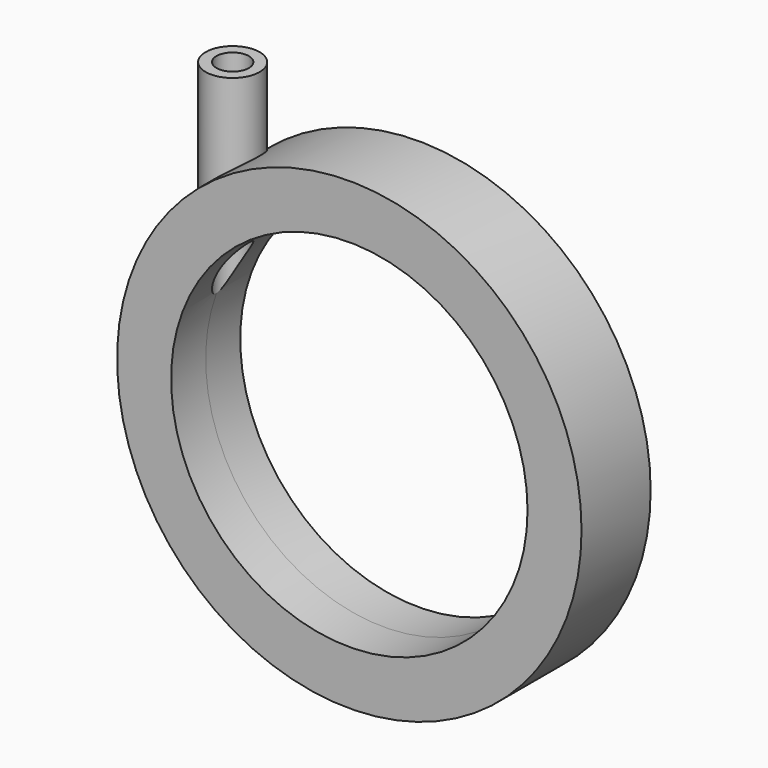
from build123d import *

# Parameters (mm, degrees)
SKETCH001_R       = 43
PAD_DEPTH         = 8
SKETCH002_W       = 5
SKETCH002_H       = 50
SKETCH003_R       = 33
POCKET_DEPTH      = 8.001
POCKET_DEPTH_BACK = 8.001
SKETCH004_W       = 3
SKETCH004_H       = 50


with BuildPart() as part:
    # Sketch001 → Pad (new body, symmetric)
    with BuildSketch(Plane.XZ):
        Circle(SKETCH001_R)
    extrude(amount=PAD_DEPTH, both=True)

    # Sketch002 → Revolution (revolve)
    with BuildSketch(Plane.XZ):
        with Locations((-30.5, 25)):
            Rectangle(SKETCH002_W, SKETCH002_H)
    revolve(axis=Axis((-28, 0, 41.317169), (0, 0, -1)))

    # Sketch003 → Pocket (cut, two sides)
    with BuildSketch(Plane.XZ) as pocket_sk:
        Circle(SKETCH003_R)
    extrude(amount=-POCKET_DEPTH, mode=Mode.SUBTRACT)
    extrude(pocket_sk.sketch, amount=POCKET_DEPTH_BACK, mode=Mode.SUBTRACT)

    # Sketch004 → Groove (revolve, cut)
    with BuildSketch(Plane.XZ):
        with Locations((-26.5, 25)):
            Rectangle(SKETCH004_W, SKETCH004_H)
    revolve(axis=Axis((-28, 0, 41.317169), (0, 0, -1)), mode=Mode.SUBTRACT)


solid = part.part
